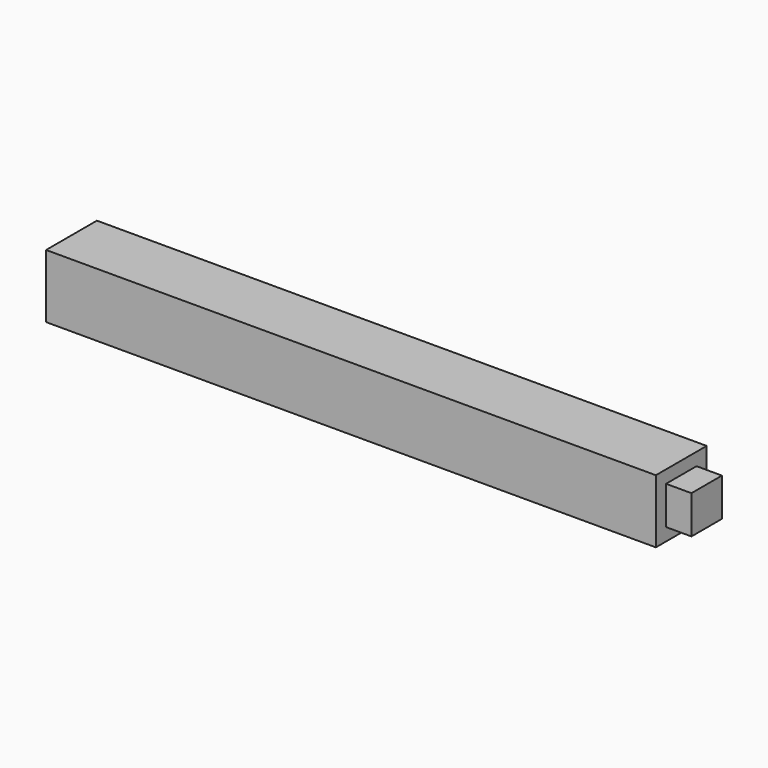
from build123d import *

# Parameters (mm, degrees)
F0_W     = 50
F0_H     = 5
F1_DEPTH = 5
F2_W     = 3
F2_H     = 3
F3_DEPTH = 2
F4_W     = 5
F4_H     = 5
F4_W_2   = 3
F4_H_2   = 3
F5_DEPTH = 2


with BuildPart() as f1:
    # F0 (on Front) → F1 (new body)
    with BuildSketch(Plane.XZ):
        Rectangle(F0_W, F0_H)
    extrude(amount=F1_DEPTH)

    # F2 (on face) → F3 (cut)
    with BuildSketch(Plane(origin=(-25, 0, 0), x_dir=(0, -1, 0), z_dir=(-1, 0, 0))):
        with Locations((2.5, 0)):
            Rectangle(F2_W, F2_H)
    extrude(amount=-F3_DEPTH, mode=Mode.SUBTRACT)

    # F4 (on face) → F5 (cut)
    with BuildSketch(Plane.YZ.offset(25)):
        with Locations((-2.5, 0)):
            Rectangle(F4_W, F4_H)
        with Locations((-2.5, 0)):
            Rectangle(F4_W_2, F4_H_2, mode=Mode.SUBTRACT)
    extrude(amount=-F5_DEPTH, mode=Mode.SUBTRACT)


solid = f1.part
